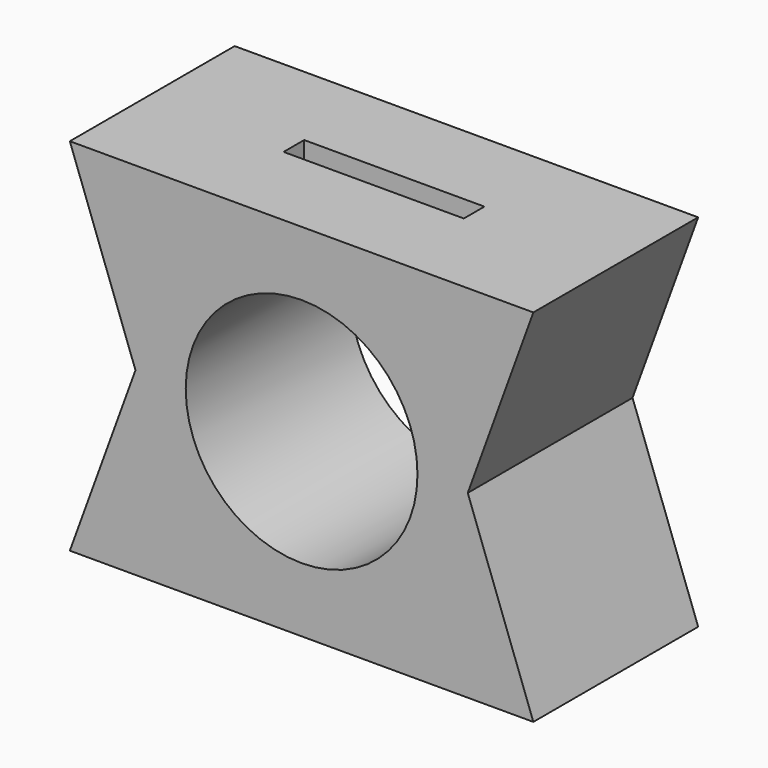
from build123d import *

# Parameters (mm, degrees)
F0_R     = 45
F1_DEPTH = 80
F2_R     = 4
F3_DEPTH = 10
F4_W     = 70
F4_H     = 10
F5_DEPTH = 53.5


with BuildPart() as f1:
    # F0 (on Front) → F1 (new body)
    with BuildSketch(Plane.XZ):
        Polygon((86.916415, 36.896855), (-93.083585, 36.896855), (-67.605668, -33.103145), (-93.083585, -103.103145), (86.916415, -103.103145), (61.438499, -33.103145), align=None)
        with Locations((-3.083585, -33.103145)):
            Circle(F0_R, mode=Mode.SUBTRACT)
    extrude(amount=F1_DEPTH)

    # F2 (on face) → F3 (cut)
    with BuildSketch(Plane(origin=(0, 0, -103.103145), x_dir=(1, 0, 0), z_dir=(0, 0, -1))):
        with Locations((-78.083585, 65)):
            Circle(F2_R)
        with Locations((-78.083585, 15)):
            Circle(F2_R)
        with Locations((71.916415, 15)):
            Circle(F2_R)
        with Locations((71.916415, 65)):
            Circle(F2_R)
    extrude(amount=-F3_DEPTH, mode=Mode.SUBTRACT)

    # F4 (on face) → F5 (cut)
    with BuildSketch(Plane.XY.offset(36.896855)):
        with Locations((-3.083585, -40)):
            Rectangle(F4_W, F4_H)
    extrude(amount=-F5_DEPTH, mode=Mode.SUBTRACT)


solid = f1.part
